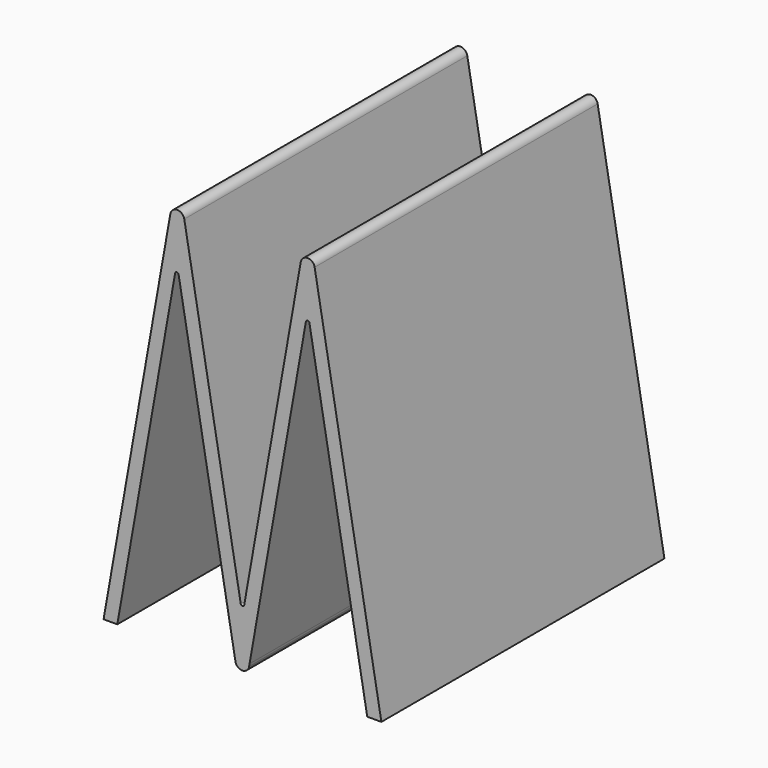
from build123d import *

# Parameters (mm, degrees)
F1_DEPTH = 25


with BuildPart() as f1:
    # F0 (on Front) → F1 (new body)
    with BuildSketch(Plane.XZ):
        with BuildLine():
            ThreePointArc((0.492404, 26.751671), (0, 27.164847), (-0.492404, 26.751671))
            Line((-0.492404, 26.751671), (-4.482871, 4.120605))
            ThreePointArc((-4.482871, 4.120605), (-4.605972, 4.017311), (-4.729073, 4.120605))
            Line((-4.729073, 4.120605), (-8.719541, 26.751671))
            ThreePointArc((-8.719541, 26.751671), (-9.211945, 27.164847), (-9.704349, 26.751671))
            Line((-9.704349, 26.751671), (-14.42139, 0))
            Line((-14.42139, 0), (-13.451544, 0))
            Line((-13.451544, 0), (-9.365199, 23.17481))
            ThreePointArc((-9.365199, 23.17481), (-9.242099, 23.278104), (-9.118998, 23.17481))
            Line((-9.118998, 23.17481), (-5.109237, 0.434329))
            ThreePointArc((-5.109237, 0.434329), (-4.945978, 0.126497), (-4.621282, 5.9e-05))
            ThreePointArc((-4.621282, 5.9e-05), (-4.304656, 0.119468), (-4.136591, 0.413176))
            Line((-4.136591, 0.413176), (-4.105972, 0.586824))
            Line((-4.105972, 0.586824), (-0.123101, 23.17481))
            ThreePointArc((-0.123101, 23.17481), (0, 23.278104), (0.123101, 23.17481))
            Line((0.123101, 23.17481), (4.209445, 0))
            Line((4.209445, 0), (5.209445, 0))
            Line((5.209445, 0), (0.492404, 26.751671))
        make_face()
    extrude(amount=F1_DEPTH)


solid = f1.part
